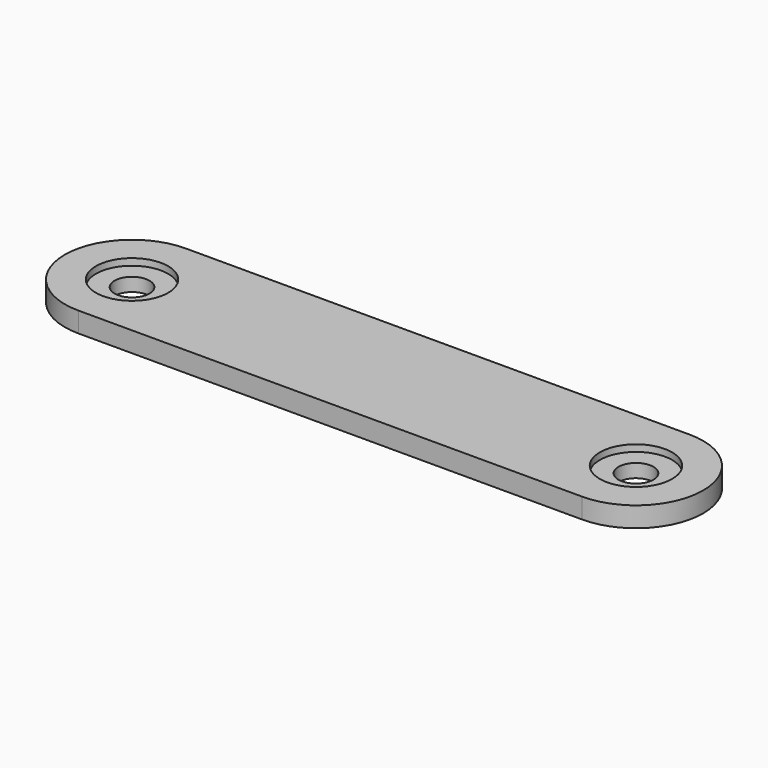
from build123d import *

# Parameters (mm, degrees)
F0_R     = 5.375
F0_R_2   = 2.6
F1_DEPTH = 3
F2_DEPTH = 1


with BuildPart() as f1:
    # F0 (on Top) → F1 (new body)
    with BuildSketch(Plane.XY):
        with BuildLine():
            Line((75, 10), (0, 10))
            ThreePointArc((0, 10), (-10, 0), (0, -10))
            Line((0, -10), (75, -10))
            ThreePointArc((75, -10), (85, 0), (75, 10))
        make_face()
        Circle(F0_R, mode=Mode.SUBTRACT)
        with Locations((75, 0)):
            Circle(F0_R, mode=Mode.SUBTRACT)
        with Locations((75, 0)):
            Circle(F0_R)
        with Locations((75, 0)):
            Circle(F0_R_2, mode=Mode.SUBTRACT)
        Circle(F0_R)
        Circle(F0_R_2, mode=Mode.SUBTRACT)
    extrude(amount=-F1_DEPTH)

    # F0 (on Top) → F2 (cut)
    with BuildSketch(Plane.XY):
        with Locations((75, 0)):
            Circle(F0_R)
        with Locations((75, 0)):
            Circle(F0_R_2, mode=Mode.SUBTRACT)
        Circle(F0_R)
        Circle(F0_R_2, mode=Mode.SUBTRACT)
    extrude(amount=-F2_DEPTH, mode=Mode.SUBTRACT)


solid = f1.part
